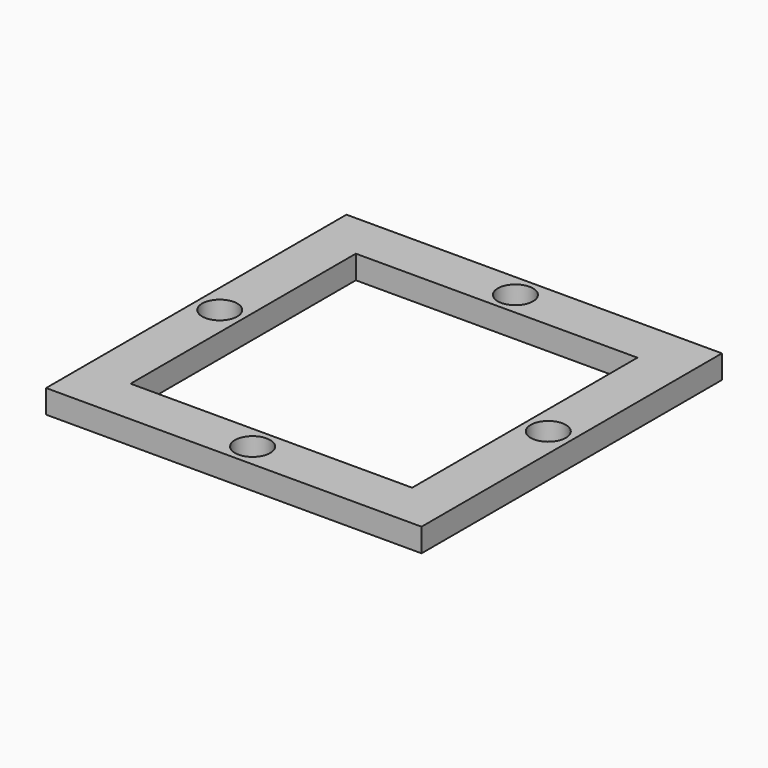
from build123d import *

# Parameters (mm, degrees)
F0_W     = 101.6
F0_H     = 101.6
F0_W_2   = 76.2
F0_H_2   = 76.2
F1_DEPTH = 6.35
F3_D     = 9.525
F3_DEPTH = 12.7


with BuildPart() as f1:
    # F0 (on Top) → F1 (new body)
    with BuildSketch(Plane.XY):
        Rectangle(F0_W, F0_H)
        Rectangle(F0_W_2, F0_H_2, mode=Mode.SUBTRACT)
    extrude(amount=F1_DEPTH)

    # F3
    with Locations(Plane.XY.offset(6.35)):
        with Locations((0, 44.45), (-44.45, 0), (44.45, 0), (0, -44.45)):
            Hole(F3_D / 2, depth=F3_DEPTH)


solid = f1.part
